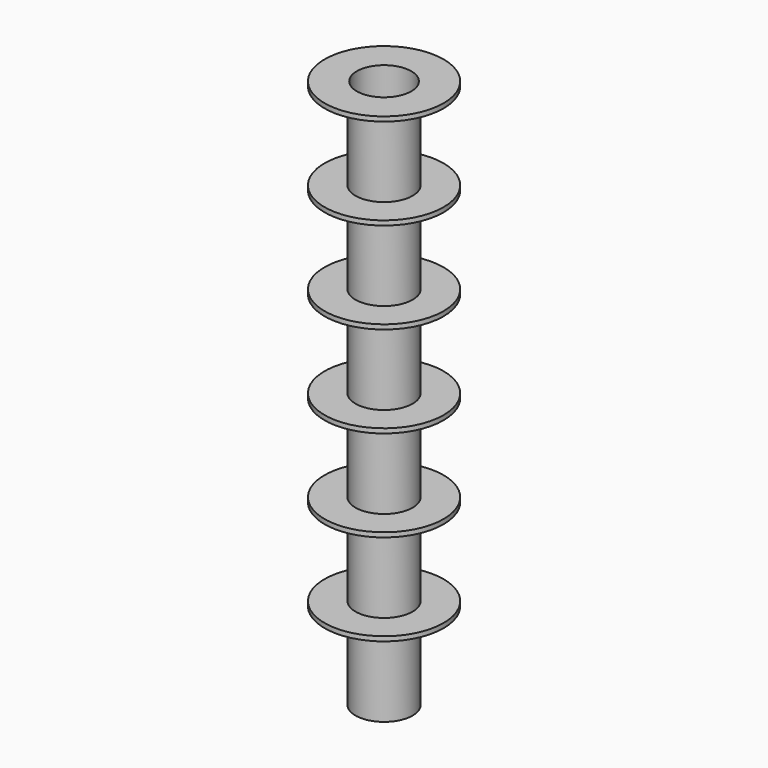
from build123d import *

# Parameters (mm, degrees)
SKETCH003_R     = 13
SKETCH003_R_2   = 5.95
PAD001_DEPTH    = 20
SKETCH004_R     = 13
SKETCH004_R_2   = 6.25
POCKET001_DEPTH = 19


with BuildPart() as coil:
    # Sketch003 → Pad001 (new body)
    with BuildSketch(Plane.XY):
        Circle(SKETCH003_R)
        Circle(SKETCH003_R_2, mode=Mode.SUBTRACT)
    extrude(amount=PAD001_DEPTH)

    # Sketch004 → Pocket001 (cut)
    with BuildSketch(Plane.XY):
        Circle(SKETCH004_R)
        Circle(SKETCH004_R_2, mode=Mode.SUBTRACT)
    extrude(amount=POCKET001_DEPTH, mode=Mode.SUBTRACT)


with BuildPart() as coil001:
    # Body003 base: copy of coil
    add(coil.part)


with BuildPart() as coil001_1:
    # Body003 placement: moved
    add(coil001.part.moved(Location((0, 0, 20))))


with BuildPart() as coil002:
    # Body004 base: copy of coil001
    add(coil001_1.part)


with BuildPart() as coil002_1:
    # Clone001 placement: moved
    add(coil002.part.moved(Location((0, 0, -20))))


with BuildPart() as coil002_2:
    # Body004 placement: moved
    add(coil002_1.part.moved(Location((0, 0, 40))))


with BuildPart() as coil003:
    # Body005 base: copy of coil
    add(coil.part)


with BuildPart() as coil003_1:
    # Body005 placement: moved
    add(coil003.part.moved(Location((0, 0, 60))))


with BuildPart() as coil004:
    # Body006 base: copy of coil
    add(coil.part)


with BuildPart() as coil004_1:
    # Body006 placement: moved
    add(coil004.part.moved(Location((0, 0, 80))))


with BuildPart() as coil005:
    # Body012 base: copy of coil
    add(coil.part)


with BuildPart() as coil005_1:
    # Body012 placement: moved
    add(coil005.part.moved(Location((0, 0, 100))))


with BuildPart() as coilsfusion:
    # Fusion base: copy of coil
    add(coil.part)

    # Fusion: union coil001, coil002, coil003, coil004, coil005
    add(coil001_1.part)
    add(coil002_2.part)
    add(coil003_1.part)
    add(coil004_1.part)
    add(coil005_1.part)


solid = coilsfusion.part
